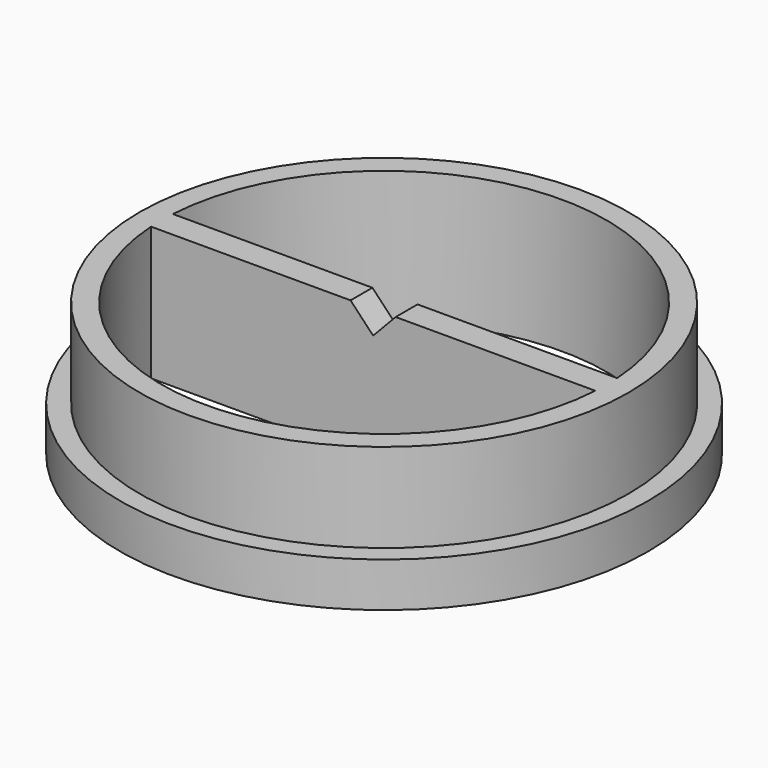
from build123d import *

# Parameters (mm, degrees)
F0_R     = 7.531741
F0_R_2   = 6.35
F1_DEPTH = 1.27
F2_R     = 6.97558
F2_R_2   = 6.35
F3_DEPTH = 2.54
F5_W     = 13.57171
F5_H     = 0.779712
F6_DEPTH = 3.81
F8_DEPTH = 2.54


with BuildPart() as f1:
    # F0 (on Top) → F1 (new body)
    with BuildSketch(Plane.XY):
        Circle(F0_R)
        Circle(F0_R_2, mode=Mode.SUBTRACT)
    extrude(amount=F1_DEPTH)

    # F2 (on face) → F3 (join)
    with BuildSketch(Plane.XY.offset(1.27)):
        Circle(F2_R)
        Circle(F2_R_2, mode=Mode.SUBTRACT)
    extrude(amount=F3_DEPTH)

    # F5 (on face) → F6 (join)
    with BuildSketch(Plane.XY.offset(3.81)):
        Rectangle(F5_W, F5_H)
    extrude(amount=-F6_DEPTH)

    # F7 (on face) → F8 (cut)
    with BuildSketch(Plane.XZ.offset(0.389856)):
        Polygon((0.642504, 3.81), (0, 3.81), (0, 3.132625), align=None)
        Polygon((0, 3.132625), (0, 3.81), (-0.644351, 3.81), align=None)
    extrude(amount=-F8_DEPTH, mode=Mode.SUBTRACT)


solid = f1.part
